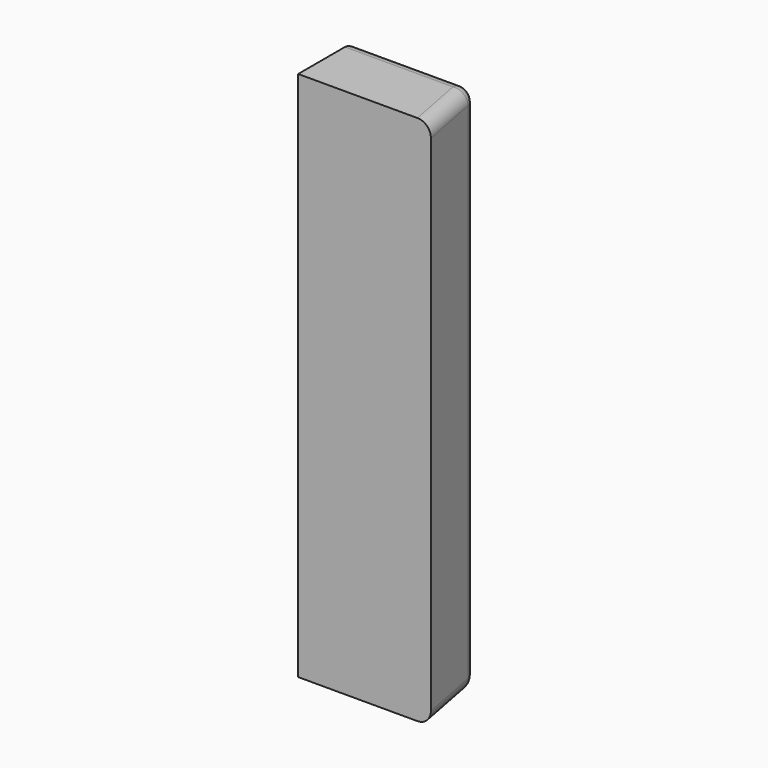
from build123d import *

# Parameters (mm, degrees)
F1_DEPTH = 400
F2_R     = 10


with BuildPart() as f1:
    # F0 (on Top) → F1 (new body)
    with BuildSketch(Plane.XY):
        Polygon((10.440307, -54), (0, 0), (-89.559693, 0), (-89.559693, -54), align=None)
    extrude(amount=F1_DEPTH)

    # F2
    f2_edges = [f1.edges().sort_by_distance(p)[0] for p in [
        (0, 0, 200),
        (5.220153, -27, 400),
        (5.220153, -27, 0),
        (-89.559693, 0, 200),
        (-44.779847, 0, 0),
        (-44.779847, 0, 400),
    ]]
    fillet(f2_edges, radius=F2_R)


solid = f1.part
